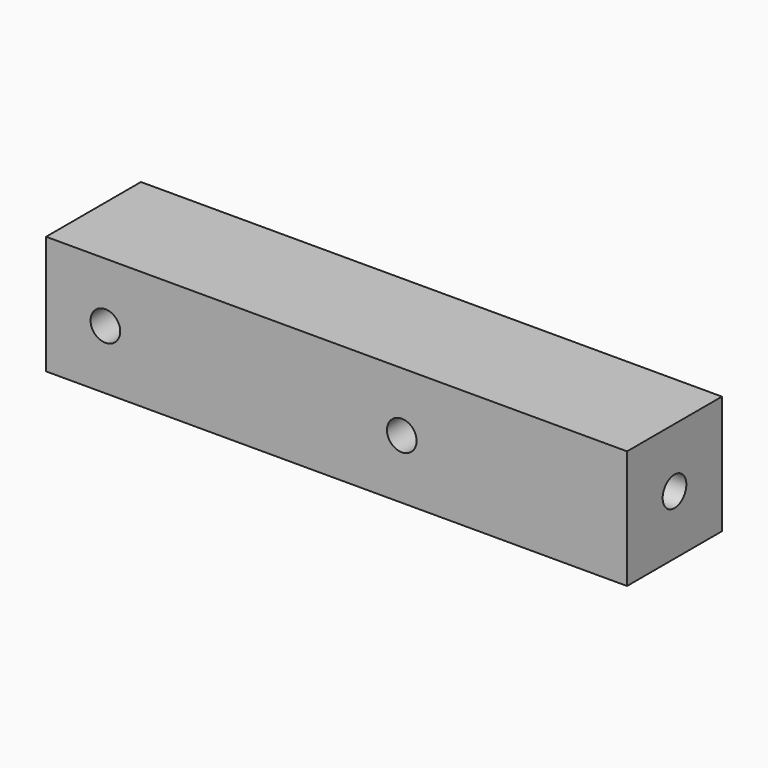
from build123d import *

# Parameters (mm, degrees)
F0_W     = 98
F0_H     = 20
F1_DEPTH = 20
F2_R     = 2.5
F3_DEPTH = 25
F4_R     = 2.5
F5_DEPTH = 20.001


with BuildPart() as f1:
    # F0 (on Front) → F1 (new body)
    with BuildSketch(Plane.XZ):
        with Locations((49, 10)):
            Rectangle(F0_W, F0_H)
    extrude(amount=F1_DEPTH)

    # F2 (on face) → F3 (cut)
    with BuildSketch(Plane.YZ.offset(98)):
        with Locations((-10, 10)):
            Circle(F2_R)
    extrude(amount=-F3_DEPTH, mode=Mode.SUBTRACT)

    # F4 (on face) → F5 (cut, through all)
    with BuildSketch(Plane.XZ.offset(20)):
        with Locations((10, 10)):
            Circle(F4_R)
        with Locations((60, 10)):
            Circle(F4_R)
    extrude(amount=-F5_DEPTH, mode=Mode.SUBTRACT)


solid = f1.part
